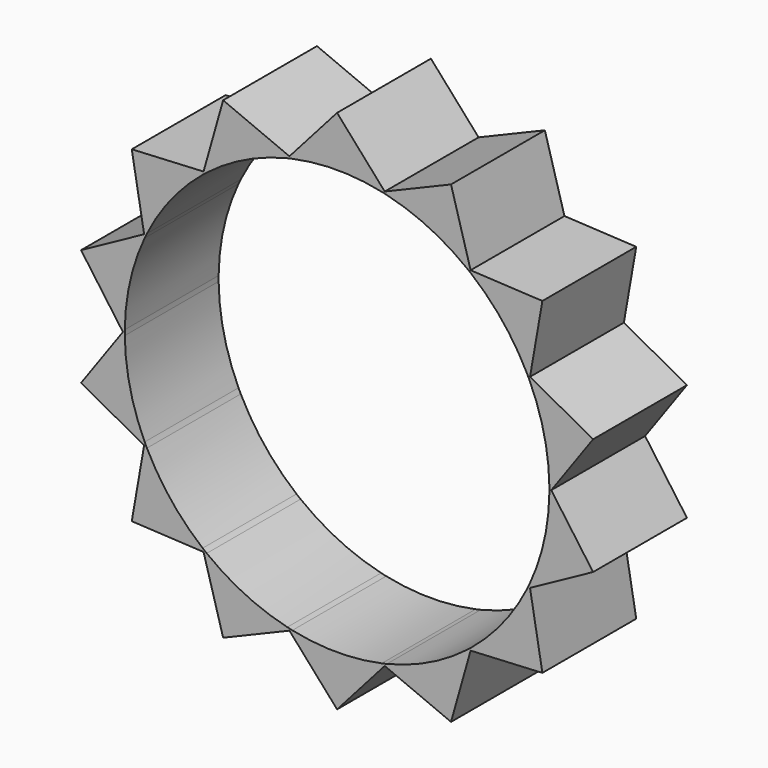
from build123d import *

# Parameters (mm, degrees)
F1_DEPTH = 6.35


with BuildPart() as f1:
    # F0 (on Front) → F1 (new body)
    with BuildSketch(Plane.XZ):
        with BuildLine():
            ThreePointArc((11.4914766139, 0.1410518603), (11.4921258391, 0.0705272582), (11.4923422502, 0))
            ThreePointArc((11.4923422502, 0), (11.4921258391, -0.0705272582), (11.4914766139, -0.1410518603))
            Line((11.4914766139, -0.1410518603), (11.5924987112, 0))
            Line((11.5924987112, 0), (11.4914766139, 0.1410518603))
        make_face()
        with BuildLine():
            ThreePointArc((10.4146627839, 4.8588815063), (11.204205236, 2.5572867309), (11.4914766139, 0.1410518603))
            Line((11.4914766139, 0.1410518603), (11.5924987112, 0))
            Line((11.5924987112, 0), (13.8578264949, 3.1629584667))
            Line((13.8578264949, 3.1629584667), (10.44448044, 5.0297966865))
            Line((10.44448044, 5.0297966865), (10.4146627839, 4.8588815063))
        make_face()
        with BuildLine():
            Line((11.5924987112, 0), (11.4914766139, -0.1410518603))
            ThreePointArc((11.4914766139, -0.1410518603), (11.204205236, -2.5572867309), (10.4146627839, -4.8588815063))
            Line((10.4146627839, -4.8588815063), (10.44448044, -5.0297966865))
            Line((10.44448044, -5.0297966865), (13.8578264949, -3.1629584667))
            Line((13.8578264949, -3.1629584667), (11.5924987112, 0))
        make_face()
        with BuildLine():
            ThreePointArc((10.2922625668, 5.1130481761), (10.3542425867, 4.9863404267), (10.4146627839, 4.8588815063))
            Line((10.4146627839, 4.8588815063), (10.44448044, 5.0297966865))
            Line((10.44448044, 5.0297966865), (10.2922625668, 5.1130481761))
        make_face()
        with BuildLine():
            Line((10.44448044, -5.0297966865), (10.4146627839, -4.8588815063))
            ThreePointArc((10.4146627839, -4.8588815063), (10.3542425867, -4.9863404267), (10.2922625668, -5.1130481761))
            Line((10.2922625668, -5.1130481761), (10.44448044, -5.0297966865))
        make_face()
        with BuildLine():
            ThreePointArc((7.2750972621, 8.8964538004), (8.9850749785, 7.1653581925), (10.2922625668, 5.1130481761))
            Line((10.2922625668, 5.1130481761), (10.44448044, 5.0297966865))
            Line((10.44448044, 5.0297966865), (11.1131140025, 8.8624126846))
            Line((11.1131140025, 8.8624126846), (7.2278047245, 9.0633804529))
            Line((7.2278047245, 9.0633804529), (7.2750972621, 8.8964538004))
        make_face()
        with BuildLine():
            Line((10.44448044, -5.0297966865), (10.2922625668, -5.1130481761))
            ThreePointArc((10.2922625668, -5.1130481761), (8.9850749785, -7.1653581925), (7.2750972621, -8.8964538004))
            Line((7.2750972621, -8.8964538004), (7.2278047245, -9.0633804529))
            Line((7.2278047245, -9.0633804529), (11.1131140025, -8.8624126846))
            Line((11.1131140025, -8.8624126846), (10.44448044, -5.0297966865))
        make_face()
        with BuildLine():
            ThreePointArc((7.054539692, 9.0723425932), (7.1653581925, 8.9850749785), (7.2750972621, 8.8964538004))
            Line((7.2750972621, 8.8964538004), (7.2278047245, 9.0633804529))
            Line((7.2278047245, 9.0633804529), (7.054539692, 9.0723425932))
        make_face()
        with BuildLine():
            Line((7.2278047245, -9.0633804529), (7.2750972621, -8.8964538004))
            ThreePointArc((7.2750972621, -8.8964538004), (7.1653581925, -8.9850749785), (7.054539692, -9.0723425932))
            Line((7.054539692, -9.0723425932), (7.2278047245, -9.0633804529))
        make_face()
        with BuildLine():
            ThreePointArc((2.6946095043, 11.1719743114), (4.9863404267, 10.3542425867), (7.054539692, 9.0723425932))
            Line((7.054539692, 9.0723425932), (7.2278047245, 9.0633804529))
            Line((7.2278047245, 9.0633804529), (6.1673129885, 12.80655738))
            Line((6.1673129885, 12.80655738), (2.5795736401, 11.3018505655))
            Line((2.5795736401, 11.3018505655), (2.6946095043, 11.1719743114))
        make_face()
        with BuildLine():
            Line((7.2278047245, -9.0633804529), (7.054539692, -9.0723425932))
            ThreePointArc((7.054539692, -9.0723425932), (4.9863404267, -10.3542425867), (2.6946095043, -11.1719743114))
            Line((2.6946095043, -11.1719743114), (2.5795736401, -11.3018505655))
            Line((2.5795736401, -11.3018505655), (6.1673129885, -12.80655738))
            Line((6.1673129885, -12.80655738), (7.2278047245, -9.0633804529))
        make_face()
        with BuildLine():
            ThreePointArc((2.419578713, 11.2347482948), (2.5572867309, 11.204205236), (2.6946095043, 11.1719743114))
            Line((2.6946095043, 11.1719743114), (2.5795736401, 11.3018505655))
            Line((2.5795736401, 11.3018505655), (2.419578713, 11.2347482948))
        make_face()
        with BuildLine():
            Line((2.5795736401, -11.3018505655), (2.6946095043, -11.1719743114))
            ThreePointArc((2.6946095043, -11.1719743114), (2.5572867309, -11.204205236), (2.419578713, -11.2347482948))
            Line((2.419578713, -11.2347482948), (2.5795736401, -11.3018505655))
        make_face()
        with BuildLine():
            ThreePointArc((-2.419578713, 11.2347482948), (0, 11.4923422502), (2.419578713, 11.2347482948))
            Line((2.419578713, 11.2347482948), (2.5795736401, 11.3018505655))
            Line((2.5795736401, 11.3018505655), (0, 14.2142063241))
            Line((0, 14.2142063241), (-2.5795736401, 11.3018505655))
            Line((-2.5795736401, 11.3018505655), (-2.419578713, 11.2347482948))
        make_face()
        with BuildLine():
            Line((2.5795736401, -11.3018505655), (2.419578713, -11.2347482948))
            ThreePointArc((2.419578713, -11.2347482948), (0, -11.4923422502), (-2.419578713, -11.2347482948))
            Line((-2.419578713, -11.2347482948), (-2.5795736401, -11.3018505655))
            Line((-2.5795736401, -11.3018505655), (0, -14.2142063241))
            Line((0, -14.2142063241), (2.5795736401, -11.3018505655))
        make_face()
        with BuildLine():
            ThreePointArc((-2.6946095043, 11.1719743114), (-2.5572867309, 11.204205236), (-2.419578713, 11.2347482948))
            Line((-2.419578713, 11.2347482948), (-2.5795736401, 11.3018505655))
            Line((-2.5795736401, 11.3018505655), (-2.6946095043, 11.1719743114))
        make_face()
        with BuildLine():
            Line((-2.5795736401, -11.3018505655), (-2.419578713, -11.2347482948))
            ThreePointArc((-2.419578713, -11.2347482948), (-2.5572867309, -11.204205236), (-2.6946095043, -11.1719743114))
            Line((-2.6946095043, -11.1719743114), (-2.5795736401, -11.3018505655))
        make_face()
        with BuildLine():
            ThreePointArc((-7.054539692, 9.0723425932), (-4.9863404267, 10.3542425867), (-2.6946095043, 11.1719743114))
            Line((-2.6946095043, 11.1719743114), (-2.5795736401, 11.3018505655))
            Line((-2.5795736401, 11.3018505655), (-6.1673129885, 12.80655738))
            Line((-6.1673129885, 12.80655738), (-7.2278047245, 9.0633804529))
            Line((-7.2278047245, 9.0633804529), (-7.054539692, 9.0723425932))
        make_face()
        with BuildLine():
            Line((-2.5795736401, -11.3018505655), (-2.6946095043, -11.1719743114))
            ThreePointArc((-2.6946095043, -11.1719743114), (-4.9863404267, -10.3542425867), (-7.054539692, -9.0723425932))
            Line((-7.054539692, -9.0723425932), (-7.2278047245, -9.0633804529))
            Line((-7.2278047245, -9.0633804529), (-6.1673129885, -12.80655738))
            Line((-6.1673129885, -12.80655738), (-2.5795736401, -11.3018505655))
        make_face()
        with BuildLine():
            ThreePointArc((-7.2750972621, 8.8964538004), (-7.1653581925, 8.9850749785), (-7.054539692, 9.0723425932))
            Line((-7.054539692, 9.0723425932), (-7.2278047245, 9.0633804529))
            Line((-7.2278047245, 9.0633804529), (-7.2750972621, 8.8964538004))
        make_face()
        with BuildLine():
            Line((-7.2278047245, -9.0633804529), (-7.054539692, -9.0723425932))
            ThreePointArc((-7.054539692, -9.0723425932), (-7.1653581925, -8.9850749785), (-7.2750972621, -8.8964538004))
            Line((-7.2750972621, -8.8964538004), (-7.2278047245, -9.0633804529))
        make_face()
        with BuildLine():
            ThreePointArc((-10.2922625668, 5.1130481761), (-8.9850749785, 7.1653581925), (-7.2750972621, 8.8964538004))
            Line((-7.2750972621, 8.8964538004), (-7.2278047245, 9.0633804529))
            Line((-7.2278047245, 9.0633804529), (-11.1131140025, 8.8624126846))
            Line((-11.1131140025, 8.8624126846), (-10.44448044, 5.0297966865))
            Line((-10.44448044, 5.0297966865), (-10.2922625668, 5.1130481761))
        make_face()
        with BuildLine():
            Line((-7.2278047245, -9.0633804529), (-7.2750972621, -8.8964538004))
            ThreePointArc((-7.2750972621, -8.8964538004), (-8.9850749785, -7.1653581925), (-10.2922625668, -5.1130481761))
            Line((-10.2922625668, -5.1130481761), (-10.44448044, -5.0297966865))
            Line((-10.44448044, -5.0297966865), (-11.1131140025, -8.8624126846))
            Line((-11.1131140025, -8.8624126846), (-7.2278047245, -9.0633804529))
        make_face()
        with BuildLine():
            ThreePointArc((-10.4146627839, 4.8588815063), (-10.3542425867, 4.9863404267), (-10.2922625668, 5.1130481761))
            Line((-10.2922625668, 5.1130481761), (-10.44448044, 5.0297966865))
            Line((-10.44448044, 5.0297966865), (-10.4146627839, 4.8588815063))
        make_face()
        with BuildLine():
            Line((-10.44448044, -5.0297966865), (-10.2922625668, -5.1130481761))
            ThreePointArc((-10.2922625668, -5.1130481761), (-10.3542425867, -4.9863404267), (-10.4146627839, -4.8588815063))
            Line((-10.4146627839, -4.8588815063), (-10.44448044, -5.0297966865))
        make_face()
        with BuildLine():
            ThreePointArc((-11.4914766139, 0.1410518603), (-11.204205236, 2.5572867309), (-10.4146627839, 4.8588815063))
            Line((-10.4146627839, 4.8588815063), (-10.44448044, 5.0297966865))
            Line((-10.44448044, 5.0297966865), (-13.8578264949, 3.1629584667))
            Line((-13.8578264949, 3.1629584667), (-11.5924987112, 0))
            Line((-11.5924987112, 0), (-11.4914766139, 0.1410518603))
        make_face()
        with BuildLine():
            Line((-10.44448044, -5.0297966865), (-10.4146627839, -4.8588815063))
            ThreePointArc((-10.4146627839, -4.8588815063), (-11.204205236, -2.5572867309), (-11.4914766139, -0.1410518603))
            Line((-11.4914766139, -0.1410518603), (-11.5924987112, 0))
            Line((-11.5924987112, 0), (-13.8578264949, -3.1629584667))
            Line((-13.8578264949, -3.1629584667), (-10.44448044, -5.0297966865))
        make_face()
        with BuildLine():
            ThreePointArc((-11.4914766139, -0.1410518603), (-11.4923422502, 0), (-11.4914766139, 0.1410518603))
            Line((-11.4914766139, 0.1410518603), (-11.5924987112, 0))
            Line((-11.5924987112, 0), (-11.4914766139, -0.1410518603))
        make_face()
    extrude(amount=F1_DEPTH)


solid = f1.part
